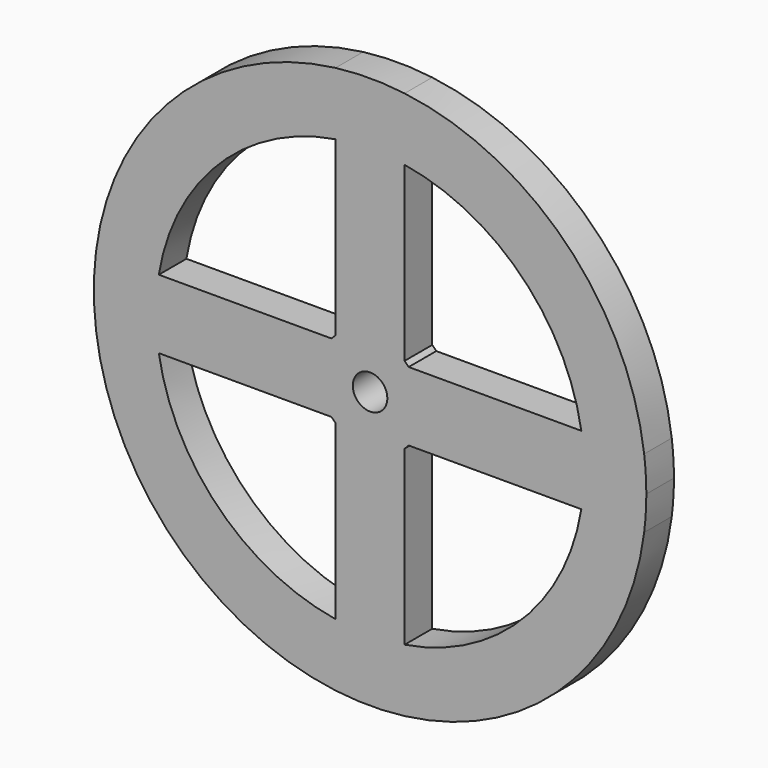
from build123d import *

# Parameters (mm, degrees)
F0_R     = 2.5
F1_DEPTH = 2.5


with BuildPart() as f1:
    # F0 (on Front) → F1 (new body, symmetric)
    with BuildSketch(Plane.XZ):
        with BuildLine():
            ThreePointArc((39.691309, -5), (39.9265, -2.504915), (40.005, 0))
            ThreePointArc((40.005, 0), (39.9265, 2.504915), (39.691309, 5))
            ThreePointArc((39.691309, 5), (28.287807, 28.287807), (5, 39.691309))
            ThreePointArc((5, 39.691309), (0, 40.005), (-5, 39.691309))
            ThreePointArc((-5, 39.691309), (-28.287807, 28.287807), (-39.691309, 5))
            ThreePointArc((-39.691309, 5), (-40.005, 0), (-39.691309, -5))
            ThreePointArc((-39.691309, -5), (-28.287807, -28.287807), (-5, -39.691309))
            ThreePointArc((-5, -39.691309), (0, -40.005), (5, -39.691309))
            ThreePointArc((5, -39.691309), (28.287807, -28.287807), (39.691309, -5))
        make_face()
        with BuildLine():
            ThreePointArc((-5, -30.594117), (-21.92031, -21.92031), (-30.594117, -5))
            Line((-30.594117, -5), (-5.59017, -5))
            ThreePointArc((-5.59017, -5), (-5.303301, -5.303301), (-5, -5.59017))
            Line((-5, -5.59017), (-5, -30.594117))
        make_face(mode=Mode.SUBTRACT)
        with BuildLine():
            ThreePointArc((5, -5.59017), (5.303301, -5.303301), (5.59017, -5))
            Line((5.59017, -5), (30.594117, -5))
            ThreePointArc((30.594117, -5), (21.92031, -21.92031), (5, -30.594117))
            Line((5, -30.594117), (5, -5.59017))
        make_face(mode=Mode.SUBTRACT)
        with BuildLine():
            Line((-5, 30.594117), (-5, 5.59017))
            ThreePointArc((-5, 5.59017), (-5.303301, 5.303301), (-5.59017, 5))
            Line((-5.59017, 5), (-30.594117, 5))
            ThreePointArc((-30.594117, 5), (-21.92031, 21.92031), (-5, 30.594117))
        make_face(mode=Mode.SUBTRACT)
        Circle(F0_R, mode=Mode.SUBTRACT)
        with BuildLine():
            Line((30.594117, 5), (5.59017, 5))
            ThreePointArc((5.59017, 5), (5.303301, 5.303301), (5, 5.59017))
            Line((5, 5.59017), (5, 30.594117))
            ThreePointArc((5, 30.594117), (21.92031, 21.92031), (30.594117, 5))
        make_face(mode=Mode.SUBTRACT)
    extrude(amount=F1_DEPTH, both=True)


solid = f1.part
